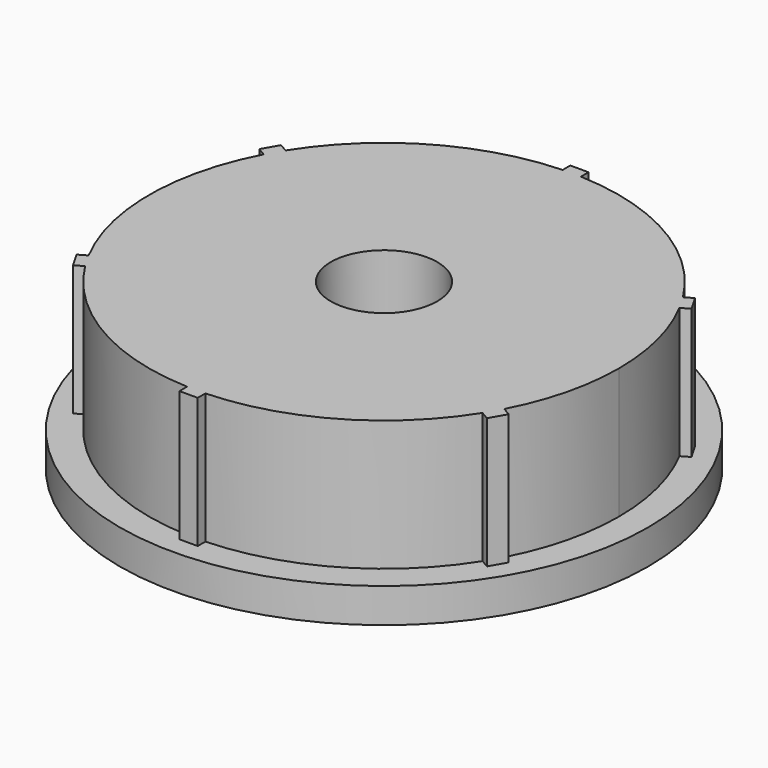
from build123d import *

# Parameters (mm, degrees)
F0_R     = 25.3
F1_DEPTH = 3.3
F3_DEPTH = 12.5
F4_R     = 5.1
F5_DEPTH = 15.801


with BuildPart() as f1:
    # F0 (on Top) → F1 (new body)
    with BuildSketch(Plane.XY):
        Circle(F0_R)
    extrude(amount=F1_DEPTH)

    # F2 (on face) → F3 (join)
    with BuildSketch(Plane.XY.offset(3.3)):
        with BuildLine():
            ThreePointArc((19.908332, -10.483718), (21.842475, -5.399655), (22.5, 0))
            ThreePointArc((22.5, 0), (21.842475, 5.399655), (19.908332, 10.483718))
            ThreePointArc((19.908332, 10.483718), (19.485572, 11.25), (19.033332, 11.999262))
            ThreePointArc((19.033332, 11.999262), (11.25, 19.485572), (0.875, 22.48298))
            ThreePointArc((0.875, 22.48298), (0, 22.5), (-0.875, 22.48298))
            ThreePointArc((-0.875, 22.48298), (-11.25, 19.485572), (-19.033332, 11.999262))
            ThreePointArc((-19.033332, 11.999262), (-19.485572, 11.25), (-19.908332, 10.483718))
            ThreePointArc((-19.908332, 10.483718), (-22.5, 0), (-19.908332, -10.483718))
            ThreePointArc((-19.908332, -10.483718), (-19.485572, -11.25), (-19.033332, -11.999262))
            ThreePointArc((-19.033332, -11.999262), (-11.25, -19.485572), (-0.875, -22.48298))
            ThreePointArc((-0.875, -22.48298), (0, -22.5), (0.875, -22.48298))
            ThreePointArc((0.875, -22.48298), (11.25, -19.485572), (19.033332, -11.999262))
            ThreePointArc((19.033332, -11.999262), (19.485572, -11.25), (19.908332, -10.483718))
        make_face()
        with BuildLine():
            ThreePointArc((19.033332, 11.999262), (19.485572, 11.25), (19.908332, 10.483718))
            Line((19.908332, 10.483718), (20.702494, 10.942228))
            Line((20.702494, 10.942228), (19.827494, 12.457772))
            Line((19.827494, 12.457772), (19.033332, 11.999262))
        make_face()
        with BuildLine():
            Line((20.702494, -10.942228), (19.908332, -10.483718))
            ThreePointArc((19.908332, -10.483718), (19.485572, -11.25), (19.033332, -11.999262))
            Line((19.033332, -11.999262), (19.827494, -12.457772))
            Line((19.827494, -12.457772), (20.702494, -10.942228))
        make_face()
        with BuildLine():
            ThreePointArc((-0.875, 22.48298), (0, 22.5), (0.875, 22.48298))
            Line((0.875, 22.48298), (0.875, 23.4))
            Line((0.875, 23.4), (-0.875, 23.4))
            Line((-0.875, 23.4), (-0.875, 22.48298))
        make_face()
        with BuildLine():
            Line((0.875, -23.4), (0.875, -22.48298))
            ThreePointArc((0.875, -22.48298), (0, -22.5), (-0.875, -22.48298))
            Line((-0.875, -22.48298), (-0.875, -23.4))
            Line((-0.875, -23.4), (0.875, -23.4))
        make_face()
        with BuildLine():
            ThreePointArc((-19.908332, 10.483718), (-19.485572, 11.25), (-19.033332, 11.999262))
            Line((-19.033332, 11.999262), (-19.827494, 12.457772))
            Line((-19.827494, 12.457772), (-20.702494, 10.942228))
            Line((-20.702494, 10.942228), (-19.908332, 10.483718))
        make_face()
        with BuildLine():
            Line((-19.827494, -12.457772), (-19.033332, -11.999262))
            ThreePointArc((-19.033332, -11.999262), (-19.485572, -11.25), (-19.908332, -10.483718))
            Line((-19.908332, -10.483718), (-20.702494, -10.942228))
            Line((-20.702494, -10.942228), (-19.827494, -12.457772))
        make_face()
    extrude(amount=F3_DEPTH)

    # F4 (on face) → F5 (cut, through all)
    with BuildSketch(Plane.XY.offset(15.8)):
        Circle(F4_R)
    extrude(amount=-F5_DEPTH, mode=Mode.SUBTRACT)


solid = f1.part
